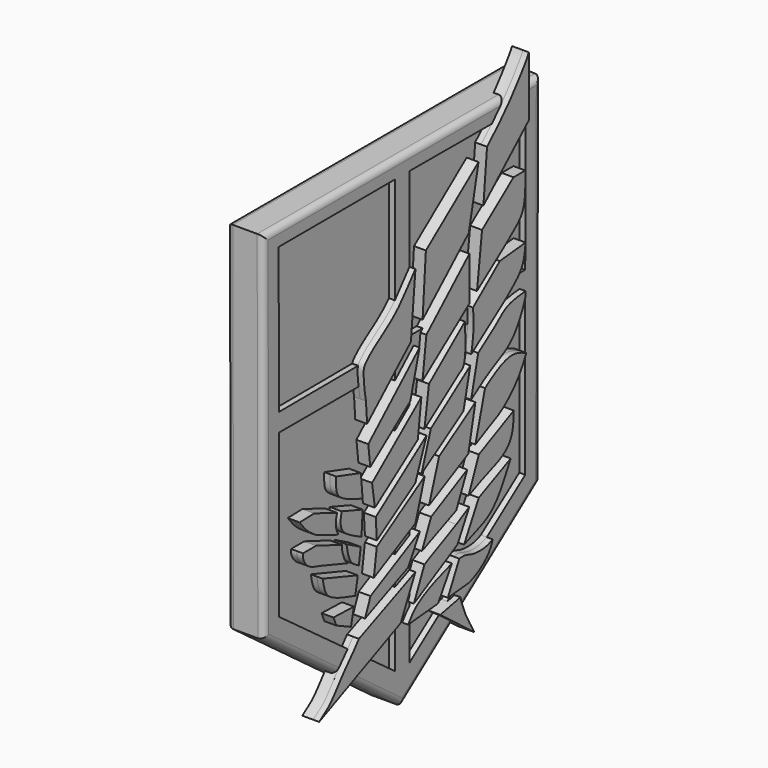
from build123d import *

# Parameters (mm, degrees)
F1_DEPTH      = 3
F2_R          = 0.5
F3_R          = 0.5
F5_DEPTH      = 0.49
F7_DEPTH      = 0.49
F7_DEPTH_BACK = 0.9


with BuildPart() as f1:
    # F0 (on Right) → F1 (new body)
    with BuildSketch(Plane.YZ):
        Polygon((14.262781212, -10.2939828171), (14.3333638473, 19.1111517964), (-14.3333638473, 19.1111517964), (-14.262781212, -10.2939828171), (0, -20.8888482036), align=None)
    extrude(amount=F1_DEPTH)

    # F2
    f2_edges = [f1.edges().sort_by_distance(p)[0] for p in [
        (3, -14.298073, 4.408584),
        (3, 0, 19.111152),
        (3, 14.298073, 4.408584),
        (3, 7.131391, -15.591416),
        (3, -7.131391, -15.591416),
    ]]
    fillet(f2_edges, radius=F2_R)

    # F3
    f3_edges = [f1.edges().sort_by_distance(p)[0] for p in [
        (0, 14.298073, 4.408584),
        (0, 7.131391, -15.591416),
        (0, -7.131391, -15.591416),
        (0, -14.298073, 4.408584),
        (0, 0, 19.111152),
    ]]
    fillet(f3_edges, radius=F3_R)

    # F4 (on face) → F5 (cut)
    with BuildSketch(Plane.YZ.offset(3)):
        Polygon((-0.75, 17.7030556116), (-12.74996543, 17.6742514862), (-12.6923573453, 5.6743897658), (-0.7580687467, 5.7316830518), align=None)
        Polygon((-0.75, 4.1743897658), (-12.6923573453, 4.1743897658), (-12.6923573453, -9.2172398127), (-0.75, -18.0159827486), align=None)
        Polygon((0.75, 17.7030556116), (0.7580687467, 5.7316830518), (12.6923573453, 5.6743897658), (12.74996543, 17.6742514862), align=None)
        Polygon((0.75, 4.1743897658), (0.75, -18.0159827486), (12.6923573453, -9.2172398127), (12.6923573453, 4.1743897658), align=None)
    extrude(amount=-F5_DEPTH, mode=Mode.SUBTRACT)

    # F6 (on face) → F7 (join, two sides)
    with BuildSketch(Plane.YZ.offset(3)) as f7_sk:
        with BuildLine():
            Line((-9.1748653528, -18.1201346994), (-0.75, -14.3528370894))
            Line((-0.75, -14.3528370894), (0.75, -11.2663144246))
            Line((0.75, -11.2663144246), (-5.0720625267, -13.749829887))
            add(Edge.make_bspline(
                [(-9.1748653528, -18.1201346994), (-8.669076998, -17.7239093311), (-8.0672127885, -17.4847882744), (-6.4819568298, -15.2449606549), (-5.5950206586, -14.44632811), (-5.0720625267, -13.749829887)],
                knots=[0, 0, 0, 0, 0.2778655556, 0.647526221, 1, 1, 1, 1], degree=3))
        make_face()
        Polygon((1.6858681338, -11.0911931843), (0.5974355522, -13.506443486), (5.0895260439, -11.0368576385), (6.3079837016, -8.7966060287), (4.9792123027, -9.518395178), align=None)
        with BuildLine():
            Line((10.583113879, -7.0134121925), (7.2899600491, -8.528011851))
            Line((7.2899600491, -8.528011851), (5.7705552317, -11.3215837628))
            add(Edge.make_bspline(
                [(5.7705552317, -11.3215837628), (6.7604832448, -10.882980871), (8.8127048329, -10.5196302436), (9.9539025613, -8.1815115893), (10.583113879, -7.0134121925)],
                knots=[0, 0, 0, 0, 0.4724480519, 1, 1, 1, 1], degree=3))
        make_face()
        with BuildLine():
            add(Edge.make_bspline(
                [(0, -14.7875631228), (0.2178049745, -14.4782304743), (0.7025138474, -13.7898335274), (2.2862340034, -12.9095983863), (3.7367039362, -12.4280781466), (4.5188822721, -12.1684142327)],
                knots=[0, 0, 0, 0, 0.2732477214, 0.6080926084, 1, 1, 1, 1], degree=3))
            Line((0, -14.7875631228), (3.092882287, -14.5021295175))
            Line((3.092882287, -14.5021295175), (4.5188822721, -12.1684142327))
        make_face()
        with BuildLine():
            Line((5.2812402137, -12.1371075511), (4.0987296961, -14.5021295175))
            Line((4.0987296961, -14.5021295175), (6.2316004187, -14.2959402874))
            add(Edge.make_bspline(
                [(8.7292794162, -12.1371075511), (8.6640617586, -12.3266929254), (8.5132282333, -12.7651605334), (7.7922323696, -13.5755264501), (6.7266039836, -14.1609711547), (6.3699633585, -14.2582138399), (6.2316004187, -14.2959402874)],
                knots=[0, 0, 0, 0, 0.218602391, 0.5055773307, 0.8081828899, 1, 1, 1, 1], degree=3))
            add(Edge.make_bspline(
                [(5.2812402137, -12.1371075511), (5.4843961699, -12.1188039272), (5.9186698765, -12.079677422), (6.6313175699, -12.4346710253), (7.9303101717, -12.4655162955), (8.4809357637, -12.2391868585), (8.7292794162, -12.1371075511)],
                knots=[0, 0, 0, 0, 0.2096197537, 0.4480909596, 0.7510774854, 1, 1, 1, 1], degree=3))
        make_face()
        with BuildLine():
            add(Edge.make_bspline(
                [(5.4044681601, -14.9871762842), (5.4353386663, -15.0824419482), (5.4665700307, -15.3024520512), (5.6648061355, -15.8351699539), (5.9212275704, -16.472593029), (6.1484724586, -16.8918604499), (6.5924274877, -17.693719381), (6.7741479763, -17.9902199201), (6.848459132, -18.1201346994)],
                knots=[0, 0, 0, 0, 0.1236626588, 0.2916707711, 0.4746480744, 0.6321605922, 0.8429129865, 1, 1, 1, 1], degree=3))
            Line((5.4044681601, -14.9871762842), (3.3128643408, -15.4157839715))
            Line((3.3128643408, -15.4157839715), (6.848459132, -18.1201346994))
        make_face()
        Polygon((1.22000095, -8.5098015573), (-3.8776556408, -11.1311492979), (-4.4409355614, -12.5377029102), (0, -10.6321428382), align=None)
        Polygon((2.3761604247, -7.9152742539), (1.4279193477, -10.0194372366), (4.972943361, -8.4983036555), (6.098220853, -6.0012938748), align=None)
        with BuildLine():
            add(Edge.make_bspline(
                [(7.2959658164, -5.3853822304), (8.4970942037, -4.8094846705), (9.6982225911, -4.2335871107), (10.8993509784, -3.6576895509)],
                knots=[0, 0, 0, 0, 3.9961614858, 3.9961614858, 3.9961614858, 3.9961614858], degree=3))
            Line((7.2959658164, -5.3853822304), (6.2362690259, -7.9562235214))
            add(Edge.make_bspline(
                [(6.2362690259, -7.9562235214), (6.698236503, -7.744555326), (7.702330713, -7.2844908845), (9.8783129518, -6.5803251413), (10.8311469581, -5.4269347282), (10.8757742798, -4.2692804815), (10.8993509784, -3.6576895509)],
                knots=[0, 0, 0, 0, 0.2425666394, 0.527222738, 0.7502308772, 1, 1, 1, 1], degree=3))
        make_face()
        Polygon((-3.2328590638, -7.8104752508), (-3.5333211647, -9.9501979608), (0.75, -7.7293570166), (1.7147502881, -4.7003349798), align=None)
        Polygon((3.2004313543, -3.8550647441), (2.1537385687, -7.0015385859), (6.2086958805, -4.8991010429), (6.9392635761, -1.4460628518), align=None)
        with BuildLine():
            add(Edge.make_bspline(
                [(7.9356743095, -0.8253995257), (8.3601573772, -0.5351395733), (9.21061765, 0.0465112398), (10.7828945198, 0.6399734172), (11.7268359117, 0.2112811408), (12.1920524814, 0)],
                knots=[0, 0, 0, 0, 0.3356902885, 0.6725999049, 1, 1, 1, 1], degree=3))
            Line((7.9356743095, -0.8253995257), (6.9392635761, -4.5203810962))
            add(Edge.make_bspline(
                [(6.9392635761, -4.5203810962), (7.2603637036, -4.343724059), (7.9978177737, -3.9378926356), (9.8229594672, -3.2158112964), (11.5091153821, -1.420843406), (11.9821512347, -0.4366990517), (12.1920524814, 0)],
                knots=[0, 0, 0, 0, 0.2043215606, 0.4692860525, 0.7645045603, 1, 1, 1, 1], degree=3))
        make_face()
        Polygon((-3.2257566034, -7.3529577247), (0.75, -4.7913008723), (1.9039772451, -1.8188607646), (-3.3382679333, -5.605849337), align=None)
        Polygon((2.3427353295, -1.5032260814), (1.385053313, -4.3821237437), (5.7060351132, -1.5980316219), (6.4173330605, 1.4291460365), align=None)
        with BuildLine():
            Line((7.2280623119, 2.0115338934), (6.5000579256, -1.0867438698))
            add(Edge.make_bspline(
                [(6.5000579256, -1.0867438698), (7.1941335426, -0.5968920943), (8.5892897616, 0.3882398567), (10.9463914918, 1.2478378334), (12.1987612156, 4.1060045969), (12.1290471085, 4.438057814), (12.110912241, 4.524431657)],
                knots=[0, 0, 0, 0, 0.2904085257, 0.5839175271, 0.891771672, 1, 1, 1, 1], degree=3))
            add(Edge.make_bspline(
                [(7.2280623119, 2.0115338934), (7.8677749274, 2.4473747981), (9.034923121, 3.2420984851), (10.1529332469, 4.3464884555), (11.4324748034, 4.4627677915), (12.110912241, 4.524431657)],
                knots=[0, 0, 0, 0, 0.3631329938, 0.6623011502, 1, 1, 1, 1], degree=3))
        make_face()
        Polygon((-3.7163735454, -2.9770570116), (-3.4254141339, -4.9021774349), (1.006478735, -1.7477217543), (1.3650494566, 1.1846392127), align=None)
        with BuildLine():
            Line((2.1517338647, 1.8259983495), (1.6836244878, -1.260399212))
            Line((1.6836244878, -1.260399212), (5.3325397264, 1.3656213212))
            add(Edge.make_bspline(
                [(5.3325397264, 1.3656213212), (5.447974508, 1.4222383538), (5.741964461, 1.5664309317), (5.9696509676, 2.6070867972), (5.9022777749, 3.9981843177), (5.8610198602, 4.8500629426)],
                knots=[0, 0, 0, 0, 0.2003803891, 0.5103299053, 1, 1, 1, 1], degree=3))
            Line((5.8610198602, 4.8500629426), (2.1517338647, 1.8259983495))
        make_face()
        with BuildLine():
            Line((9.4565964506, 7.7814238224), (6.6958446125, 5.5306693931))
            add(Edge.make_bspline(
                [(6.6958446125, 5.5306693931), (6.7166801679, 5.3208080221), (6.7655058582, 4.8290224145), (6.7567047098, 3.5822644541), (6.5966058987, 2.6817708564), (6.5137430969, 2.2156997972)],
                knots=[0, 0, 0, 0, 0.2642263129, 0.6191834984, 1, 1, 1, 1], degree=3))
            Line((6.5137430969, 2.2156997972), (9.9512639726, 4.6895858189))
            add(Edge.make_bspline(
                [(9.9512639726, 4.6895858189), (10.2763489342, 4.9413391171), (10.9421050247, 5.4569160013), (11.9553919814, 6.4909294303), (12.0593185457, 7.5223665023), (12.1126873419, 8.0520343035)],
                knots=[0, 0, 0, 0, 0.3170420356, 0.6492846213, 1, 1, 1, 1], degree=3))
            Line((12.1126873419, 8.0520343035), (9.4565964506, 7.7814238224))
        make_face()
        Polygon((-4.107422661, 0), (-3.9022696201, -1.7521013543), (0.2329605845, 1.3712371533), (1.1835749971, 4.864335971), align=None)
        Polygon((1.8852768409, 5.5094531569), (1.481156752, 2.3139994573), (6.323674499, 5.9715520976), (6.323674499, 9.5899420886), align=None)
        with BuildLine():
            Line((10.8721973374, 13.2957659662), (7.6276678592, 10.7887824997))
            Line((7.6276678592, 10.7887824997), (7.1061789376, 6.5625775362))
            Line((7.1061789376, 6.5625775362), (10.1332990453, 8.8016400114))
            add(Edge.make_bspline(
                [(10.1332990453, 8.8016400114), (10.3845490477, 8.9956261842), (11.0085678813, 9.5160680216), (12.184428678, 10.4695674957), (12.0917819085, 12.5915084509), (12.0877493173, 13.2957659662)],
                knots=[0, 0, 0, 0, 0.2680123857, 0.5782221227, 1, 1, 1, 1], degree=3))
            Line((12.0877493173, 13.2957659662), (10.8721973374, 13.2957659662))
        make_face()
        with BuildLine():
            Line((-4.3485451907, 3.2285784478), (-4.2259261431, 1.5178056216))
            Line((-4.2259261431, 1.5178056216), (0.2895227965, 5.6540796873))
            Line((0.2895227965, 5.6540796873), (0.7546890071, 10.7461076209))
            add(Edge.make_bspline(
                [(-4.3485451907, 3.2285784478), (-4.4196320029, 3.527925532), (-4.7323862238, 5.5151515967), (-4.3799299756, 6.0368843959), (-3.3683275385, 6.9568098877), (-1.0627573177, 8.2762530904), (0.1890374648, 10.0980204282), (0.7546890071, 10.7461076209)],
                knots=[0, 0, 0, 0, 0.2180551353, 0.3378210453, 0.5009646425, 0.7436998758, 1, 1, 1, 1], degree=3))
        make_face()
        Polygon((1.8320934625, 11.6524190625), (1.4916699128, 6.7552791486), (6.2594023919, 11.1226517995), (7.2633416261, 15.8737598947), align=None)
        with BuildLine():
            Line((8.1408400911, 16.6268307689), (7.766952074, 12.5036083192))
            Line((7.766952074, 12.5036083192), (12.4444086887, 16.7882858225))
            Line((12.4444086887, 16.7882858225), (12.456271527, 21.7304129454))
            add(Edge.make_bspline(
                [(8.1408400911, 16.6268307689), (8.2825983059, 16.7580630643), (8.6527729325, 17.0798974302), (9.7929724128, 18.2132051618), (10.9325635588, 19.5183931989), (12.0315110234, 21.0010893134), (12.3120302251, 21.4475266857), (12.4113857036, 21.6386851638), (12.456271527, 21.7304129454)],
                knots=[0, 0, 0, 0, 0.1337992215, 0.3410787948, 0.5693899502, 0.7923892462, 0.9096103865, 1, 1, 1, 1], degree=3))
        make_face()
        Polygon((-5.8889745315, -12.5540454111), (-5.5950206586, -11.1978839474), (-7.6990365051, -11.1349355429), (-7.4080880731, -11.8380598724), align=None)
        with BuildLine():
            add(Edge.make_bspline(
                [(-8.8143385947, -7.8617669642), (-8.7646636957, -8.1128219783), (-8.6613115748, -8.6354063018), (-8.2863820036, -9.6366752541), (-6.559897046, -10.1452630019), (-5.4475038457, -10.4727062953)],
                knots=[0, 0, 0, 0, 0.2477388595, 0.5158261304, 1, 1, 1, 1], degree=3))
            Line((-5.4475038457, -10.4727062953), (-5.1885958167, -9.0890797489))
            Line((-5.1885958167, -9.0890797489), (-8.8143385947, -7.8617669642))
        make_face()
        with BuildLine():
            add(Edge.make_bspline(
                [(-6.3581210561, -6.3567529432), (-6.3304699436, -6.5224381164), (-6.2739953012, -6.8616842295), (-6.1296723628, -7.3977193787), (-5.8345588656, -7.9997724658), (-5.3378444001, -8.2708245176), (-5.0764376776, -8.4164616438)],
                knots=[0, 0, 0, 0, 0.2240075692, 0.4574835288, 0.7089245721, 1, 1, 1, 1], degree=3))
            Line((-5.0764376776, -8.4164616438), (-4.8914298461, -7.1421742989))
            Line((-4.8914298461, -7.1421742989), (-6.3581210561, -6.3567529432))
        make_face()
        with BuildLine():
            add(Edge.make_bspline(
                [(-6.8223039568, -6.2095369284), (-6.8245394366, -6.3000576628), (-6.8377035268, -6.5042558797), (-6.7423129175, -6.8874649076), (-6.5266938556, -7.5423186646), (-6.294400735, -7.6903423078), (-6.2685408629, -7.7770999633)],
                knots=[0, 0, 0, 0, 0.2060284144, 0.4545334939, 0.777017875, 1, 1, 1, 1], degree=3))
            Line((-6.8223039568, -6.2095369284), (-9.4860640137, -5.1937913522))
            Line((-9.4860640137, -5.1937913522), (-9.7114285454, -5.1937913522))
            Line((-9.7114285454, -5.1937913522), (-10.8477454633, -5.1937913522))
            add(Edge.make_bspline(
                [(-10.8477454633, -5.1937913522), (-10.8596575407, -5.2823997214), (-10.8918966582, -5.5222114267), (-10.47596987, -6.4468888757), (-9.5709152884, -6.6931057635), (-9.0614065894, -6.8317157974)],
                knots=[0, 0, 0, 0, 0.2038947169, 0.5518252984, 1, 1, 1, 1], degree=3))
            Line((-9.0614065894, -6.8317157974), (-6.2685408629, -7.7770999633))
        make_face()
        with BuildLine():
            add(Edge.make_bspline(
                [(-6.8537378684, -3.7659276277), (-6.930551825, -4.0493475841), (-7.2402694416, -5.3769059463), (-5.6237699666, -6.0206097679), (-4.8094567849, -6.4470538858)],
                knots=[0, 0, 0, 0, 0.4171726671, 1, 1, 1, 1], degree=3))
            Line((-4.8094567849, -6.4470538858), (-4.6877282283, -4.5187196533))
            Line((-4.6877282283, -4.5187196533), (-6.8537378684, -3.7659276277))
        make_face()
        with BuildLine():
            Line((-9.265638853, -4.5228298728), (-7.2002345696, -5.3229560144))
            add(Edge.make_bspline(
                [(-7.2002345696, -5.3229560144), (-7.2901939161, -5.1325122091), (-7.4653416984, -4.7617246094), (-7.4726984672, -4.1894777131), (-7.3728794891, -3.8488955975), (-7.323615253, -3.6808061413)],
                knots=[0, 0, 0, 0, 0.3484613477, 0.6784423704, 1, 1, 1, 1], degree=3))
            Line((-7.323615253, -3.6808061413), (-9.6936728805, -2.7626589872))
            Line((-9.6936728805, -2.7626589872), (-11.1854793504, -2.8100104537))
            add(Edge.make_bspline(
                [(-9.265638853, -4.5228298728), (-9.3111984095, -4.4743998785), (-9.5093685187, -4.4206655127), (-9.8402901693, -4.1754456518), (-10.5556102783, -3.6675178625), (-11.0076375988, -3.0309590887), (-11.1854793504, -2.8100104537)],
                knots=[0, 0, 0, 0, 0.1584539117, 0.3634939798, 0.6685128395, 1, 1, 1, 1], degree=3))
        make_face()
        with BuildLine():
            add(Edge.make_bspline(
                [(-7.4236895889, -1.0032481514), (-7.4314166818, -1.2516578238), (-7.4473571448, -1.7644703412), (-7.288504126, -2.8003662004), (-5.7063958258, -3.3595213934), (-4.6933057309, -3.7177067697)],
                knots=[0, 0, 0, 0, 0.2524967936, 0.5212265801, 1, 1, 1, 1], degree=3))
            Line((-4.6933057309, -3.7177067697), (-4.8696939784, -1.7883939285))
            Line((-4.8696939784, -1.7883939285), (-7.4236895889, -1.0032481514))
        make_face()
    extrude(amount=F7_DEPTH)
    extrude(f7_sk.sketch, amount=-F7_DEPTH_BACK)


solid = f1.part
